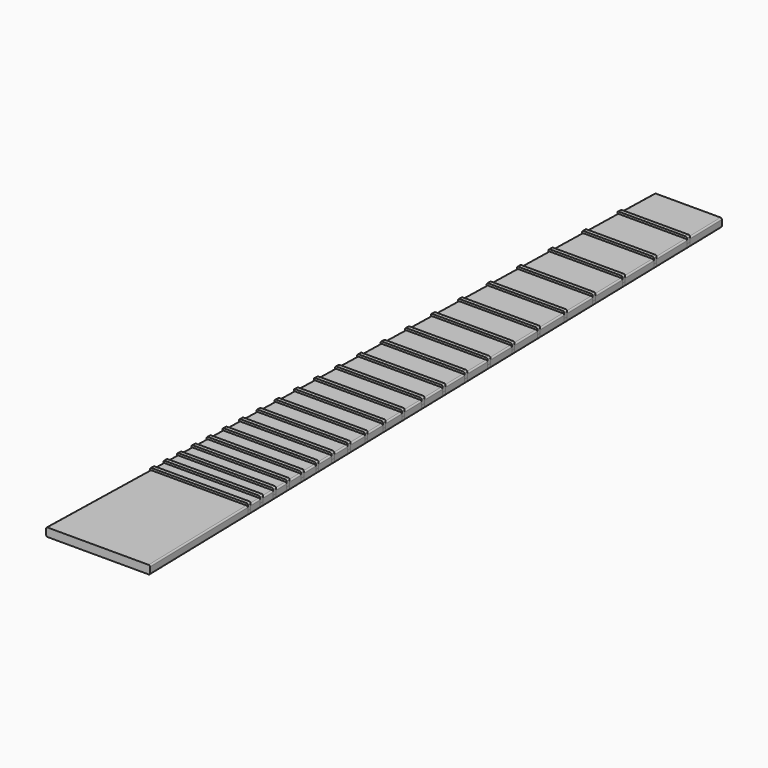
from build123d import *

# Parameters (mm, degrees)
F1_DEPTH = 3
F2_R     = 1
F3_DEPTH = 4.5
F5_R     = 1
F5_2_R   = 1
F5_3_R   = 1
F5_4_R   = 1
F5_5_R   = 1
F5_6_R   = 1
F5_7_R   = 1
F5_8_R   = 1
F5_9_R   = 1
F5_10_R  = 1
F5_11_R  = 1
F5_12_R  = 1
F5_13_R  = 1
F5_14_R  = 1
F5_15_R  = 1
F5_16_R  = 1
F5_17_R  = 1
F5_18_R  = 1
F5_19_R  = 1
F5_20_R  = 1
F5_21_R  = 1
F5_22_R  = 1


with BuildPart() as f1:
    # F0 (on Top) → F1 (new body, symmetric)
    with BuildSketch(Plane.XY):
        Polygon((24, 525), (0, 525), (-24, 525), (-24.7296342857, 495.534), (0, 495.534), (24.7296342857, 495.534), align=None)
        Polygon((0, 495.534), (-24.7296342857, 495.534), (-24.794416381, 492.9178), (0, 492.9178), (24.794416381, 492.9178), (24.7296342857, 495.534), align=None)
        Polygon((0, 492.9178), (-24.794416381, 492.9178), (-25.4830944762, 465.1058), (0, 465.1058), (25.4830944762, 465.1058), (24.794416381, 492.9178), align=None)
        Polygon((0, 465.1058), (-25.4830944762, 465.1058), (-25.5478765714, 462.4896), (0, 462.4896), (25.5478765714, 462.4896), (25.4830944762, 465.1058), align=None)
        Polygon((0, 462.4896), (-25.5478765714, 462.4896), (-26.1979013333, 436.2386), (0, 436.2386), (26.1979013333, 436.2386), (25.5478765714, 462.4896), align=None)
        Polygon((0, 436.2386), (-26.1979013333, 436.2386), (-26.2626834286, 433.6224), (0, 433.6224), (26.2626834286, 433.6224), (26.1979013333, 436.2386), align=None)
        Polygon((0, 433.6224), (-26.2626834286, 433.6224), (-26.8762339048, 408.8444), (0, 408.8444), (26.8762339048, 408.8444), (26.2626834286, 433.6224), align=None)
        Polygon((0, 408.8444), (-26.8762339048, 408.8444), (-26.941016, 406.2282), (0, 406.2282), (26.941016, 406.2282), (26.8762339048, 408.8444), align=None)
        Polygon((0, 406.2282), (-26.941016, 406.2282), (-27.5201226667, 382.8412), (0, 382.8412), (27.5201226667, 382.8412), (26.941016, 406.2282), align=None)
        Polygon((0, 382.8412), (-27.5201226667, 382.8412), (-27.5849047619, 380.225), (0, 380.225), (27.5849047619, 380.225), (27.5201226667, 382.8412), align=None)
        Polygon((0, 380.225), (-27.5849047619, 380.225), (-28.1315238095, 358.15), (0, 358.15), (28.1315238095, 358.15), (27.5849047619, 380.225), align=None)
        Polygon((0, 358.15), (-28.1315238095, 358.15), (-28.1963059048, 355.5338), (0, 355.5338), (28.1963059048, 355.5338), (28.1315238095, 358.15), align=None)
        Polygon((0, 355.5338), (-28.1963059048, 355.5338), (-28.7122449524, 334.6978), (0, 334.6978), (28.7122449524, 334.6978), (28.1963059048, 355.5338), align=None)
        Polygon((0, 334.6978), (-28.7122449524, 334.6978), (-28.7770270476, 332.0816), (0, 332.0816), (28.7770270476, 332.0816), (28.7122449524, 334.6978), align=None)
        Polygon((0, 332.0816), (-28.7770270476, 332.0816), (-29.2639946667, 312.4156), (0, 312.4156), (29.2639946667, 312.4156), (28.7770270476, 332.0816), align=None)
        Polygon((0, 312.4156), (-29.2639946667, 312.4156), (-29.3287767619, 309.7994), (0, 309.7994), (29.3287767619, 309.7994), (29.2639946667, 312.4156), align=None)
        Polygon((0, 309.7994), (-29.3287767619, 309.7994), (-29.7884072381, 291.2374), (0, 291.2374), (29.7884072381, 291.2374), (29.3287767619, 309.7994), align=None)
        Polygon((0, 291.2374), (-29.7884072381, 291.2374), (-29.8531893333, 288.6212), (0, 288.6212), (29.8531893333, 288.6212), (29.7884072381, 291.2374), align=None)
        Polygon((0, 288.6212), (-29.8531893333, 288.6212), (-30.2870426667, 271.1002), (0, 271.1002), (30.2870426667, 271.1002), (29.8531893333, 288.6212), align=None)
        Polygon((0, 271.1002), (-30.2870426667, 271.1002), (-30.3518247619, 268.484), (0, 268.484), (30.3518247619, 268.484), (30.2870426667, 271.1002), align=None)
        Polygon((0, 268.484), (-30.3518247619, 268.484), (-30.761312381, 251.947), (0, 251.947), (30.761312381, 251.947), (30.3518247619, 268.484), align=None)
        Polygon((0, 251.947), (-30.761312381, 251.947), (-30.8260895238, 249.331), (0, 249.331), (30.8260895238, 249.331), (30.761312381, 251.947), align=None)
        Polygon((0, 249.331), (-30.8260895238, 249.331), (-31.2125980952, 233.722), (0, 233.722), (31.2125980952, 233.722), (30.8260895238, 249.331), align=None)
        Polygon((0, 233.722), (-31.2125980952, 233.722), (-31.2773801905, 231.1058), (0, 231.1058), (31.2773801905, 231.1058), (31.2125980952, 233.722), align=None)
        Polygon((0, 231.1058), (-31.2773801905, 231.1058), (-31.6421973333, 216.3728), (0, 216.3728), (31.6421973333, 216.3728), (31.2773801905, 231.1058), align=None)
        Polygon((0, 216.3728), (-31.6421973333, 216.3728), (-31.7069794286, 213.7566), (0, 213.7566), (31.7069794286, 213.7566), (31.6421973333, 216.3728), align=None)
        Polygon((0, 213.7566), (-31.7069794286, 213.7566), (-32.0513184762, 199.8506), (0, 199.8506), (32.0513184762, 199.8506), (31.7069794286, 213.7566), align=None)
        Polygon((0, 199.8506), (-32.0513184762, 199.8506), (-32.1161005714, 197.2344), (0, 197.2344), (32.1161005714, 197.2344), (32.0513184762, 199.8506), align=None)
        Polygon((0, 197.2344), (-32.1161005714, 197.2344), (-32.4411253333, 184.1084), (0, 184.1084), (32.4411253333, 184.1084), (32.1161005714, 197.2344), align=None)
        Polygon((0, 184.1084), (-32.4411253333, 184.1084), (-32.5059024762, 181.4924), (0, 181.4924), (32.5059024762, 181.4924), (32.4411253333, 184.1084), align=None)
        Polygon((0, 181.4924), (-32.5059024762, 181.4924), (-32.8126777143, 169.1034), (0, 169.1034), (32.8126777143, 169.1034), (32.5059024762, 181.4924), align=None)
        Polygon((0, 169.1034), (-32.8126777143, 169.1034), (-32.8774548571, 166.4874), (0, 166.4874), (32.8774548571, 166.4874), (32.8126777143, 169.1034), align=None)
        Polygon((0, 166.4874), (-32.8774548571, 166.4874), (-33.1669958095, 154.7944), (0, 154.7944), (33.1669958095, 154.7944), (32.8774548571, 166.4874), align=None)
        Polygon((0, 154.7944), (-33.1669958095, 154.7944), (-33.2317729524, 152.1784), (0, 152.1784), (33.2317729524, 152.1784), (33.1669958095, 154.7944), align=None)
        Polygon((0, 152.1784), (-33.2317729524, 152.1784), (-33.5050700952, 141.1414), (0, 141.1414), (33.5050700952, 141.1414), (33.2317729524, 152.1784), align=None)
        Polygon((0, 141.1414), (-33.5050700952, 141.1414), (-33.5698472381, 138.5254), (0, 138.5254), (33.5698472381, 138.5254), (33.5050700952, 141.1414), align=None)
        Polygon((0, 138.5254), (-33.5698472381, 138.5254), (-33.8278167619, 128.1074), (0, 128.1074), (33.8278167619, 128.1074), (33.5698472381, 138.5254), align=None)
        Polygon((0, 128.1074), (-33.8278167619, 128.1074), (-33.8925939048, 125.4914), (0, 125.4914), (33.8925939048, 125.4914), (33.8278167619, 128.1074), align=None)
        Polygon((0, 125.4914), (-33.8925939048, 125.4914), (-34.1360777143, 115.6584), (0, 115.6584), (34.1360777143, 115.6584), (33.8925939048, 125.4914), align=None)
        Polygon((0, 115.6584), (-34.1360777143, 115.6584), (-34.2008548571, 113.0424), (0, 113.0424), (34.2008548571, 113.0424), (34.1360777143, 115.6584), align=None)
        Polygon((0, 113.0424), (-34.2008548571, 113.0424), (-34.4306948571, 103.7604), (0, 103.7604), (34.4306948571, 103.7604), (34.2008548571, 113.0424), align=None)
        Polygon((0, 103.7604), (-34.4306948571, 103.7604), (-34.495472, 101.1444), (0, 101.1444), (34.495472, 101.1444), (34.4306948571, 103.7604), align=None)
        Polygon((0, 101.1444), (-34.495472, 101.1444), (-34.7123862857, 92.3844), (0, 92.3844), (34.7123862857, 92.3844), (34.495472, 101.1444), align=None)
        Polygon((0, 92.3844), (-34.7123862857, 92.3844), (-34.7771634286, 89.7684), (0, 89.7684), (34.7771634286, 89.7684), (34.7123862857, 92.3844), align=None)
        Polygon((0, 89.7684), (-34.7771634286, 89.7684), (-37, 0), (0, 0), (37, 0), (34.7771634286, 89.7684), align=None)
    extrude(amount=F1_DEPTH, both=True)

    # F2
    f2_edges = [f1.edges().sort_by_distance(p)[0] for p in [
        (-30.5, 262.5, -3),
        (30.5, 262.5, -3),
        (30.5, 262.5, 3),
        (-30.5, 262.5, 3),
    ]]
    fillet(f2_edges, radius=F2_R)


with BuildPart() as f3:
    # F0 (on Top) → F3 (new body)
    with BuildSketch(Plane.XY):
        Polygon((0, 495.534), (-24.7296342857, 495.534), (-24.794416381, 492.9178), (0, 492.9178), (24.794416381, 492.9178), (24.7296342857, 495.534), align=None)
    extrude(amount=F3_DEPTH)


with BuildPart() as f3b:
    # F0 (on Top) → F3, piece 2 (new body)
    with BuildSketch(Plane.XY):
        Polygon((0, 465.1058), (-25.4830944762, 465.1058), (-25.5478765714, 462.4896), (0, 462.4896), (25.5478765714, 462.4896), (25.4830944762, 465.1058), align=None)
    extrude(amount=F3_DEPTH)


with BuildPart() as f3c:
    # F0 (on Top) → F3, piece 3 (new body)
    with BuildSketch(Plane.XY):
        Polygon((0, 436.2386), (-26.1979013333, 436.2386), (-26.2626834286, 433.6224), (0, 433.6224), (26.2626834286, 433.6224), (26.1979013333, 436.2386), align=None)
    extrude(amount=F3_DEPTH)


with BuildPart() as f3d:
    # F0 (on Top) → F3, piece 4 (new body)
    with BuildSketch(Plane.XY):
        Polygon((0, 408.8444), (-26.8762339048, 408.8444), (-26.941016, 406.2282), (0, 406.2282), (26.941016, 406.2282), (26.8762339048, 408.8444), align=None)
    extrude(amount=F3_DEPTH)


with BuildPart() as f3e:
    # F0 (on Top) → F3, piece 5 (new body)
    with BuildSketch(Plane.XY):
        Polygon((0, 382.8412), (-27.5201226667, 382.8412), (-27.5849047619, 380.225), (0, 380.225), (27.5849047619, 380.225), (27.5201226667, 382.8412), align=None)
    extrude(amount=F3_DEPTH)


with BuildPart() as f3f:
    # F0 (on Top) → F3, piece 6 (new body)
    with BuildSketch(Plane.XY):
        Polygon((0, 358.15), (-28.1315238095, 358.15), (-28.1963059048, 355.5338), (0, 355.5338), (28.1963059048, 355.5338), (28.1315238095, 358.15), align=None)
    extrude(amount=F3_DEPTH)


with BuildPart() as f3g:
    # F0 (on Top) → F3, piece 7 (new body)
    with BuildSketch(Plane.XY):
        Polygon((0, 334.6978), (-28.7122449524, 334.6978), (-28.7770270476, 332.0816), (0, 332.0816), (28.7770270476, 332.0816), (28.7122449524, 334.6978), align=None)
    extrude(amount=F3_DEPTH)


with BuildPart() as f3h:
    # F0 (on Top) → F3, piece 8 (new body)
    with BuildSketch(Plane.XY):
        Polygon((0, 312.4156), (-29.2639946667, 312.4156), (-29.3287767619, 309.7994), (0, 309.7994), (29.3287767619, 309.7994), (29.2639946667, 312.4156), align=None)
    extrude(amount=F3_DEPTH)


with BuildPart() as f3i:
    # F0 (on Top) → F3, piece 9 (new body)
    with BuildSketch(Plane.XY):
        Polygon((0, 291.2374), (-29.7884072381, 291.2374), (-29.8531893333, 288.6212), (0, 288.6212), (29.8531893333, 288.6212), (29.7884072381, 291.2374), align=None)
    extrude(amount=F3_DEPTH)


with BuildPart() as f3j:
    # F0 (on Top) → F3, piece 10 (new body)
    with BuildSketch(Plane.XY):
        Polygon((0, 271.1002), (-30.2870426667, 271.1002), (-30.3518247619, 268.484), (0, 268.484), (30.3518247619, 268.484), (30.2870426667, 271.1002), align=None)
    extrude(amount=F3_DEPTH)


with BuildPart() as f3k:
    # F0 (on Top) → F3, piece 11 (new body)
    with BuildSketch(Plane.XY):
        Polygon((0, 251.947), (-30.761312381, 251.947), (-30.8260895238, 249.331), (0, 249.331), (30.8260895238, 249.331), (30.761312381, 251.947), align=None)
    extrude(amount=F3_DEPTH)


with BuildPart() as f3l:
    # F0 (on Top) → F3, piece 12 (new body)
    with BuildSketch(Plane.XY):
        Polygon((0, 233.722), (-31.2125980952, 233.722), (-31.2773801905, 231.1058), (0, 231.1058), (31.2773801905, 231.1058), (31.2125980952, 233.722), align=None)
    extrude(amount=F3_DEPTH)


with BuildPart() as f3m:
    # F0 (on Top) → F3, piece 13 (new body)
    with BuildSketch(Plane.XY):
        Polygon((0, 216.3728), (-31.6421973333, 216.3728), (-31.7069794286, 213.7566), (0, 213.7566), (31.7069794286, 213.7566), (31.6421973333, 216.3728), align=None)
    extrude(amount=F3_DEPTH)


with BuildPart() as f3n:
    # F0 (on Top) → F3, piece 14 (new body)
    with BuildSketch(Plane.XY):
        Polygon((0, 199.8506), (-32.0513184762, 199.8506), (-32.1161005714, 197.2344), (0, 197.2344), (32.1161005714, 197.2344), (32.0513184762, 199.8506), align=None)
    extrude(amount=F3_DEPTH)


with BuildPart() as f3o:
    # F0 (on Top) → F3, piece 15 (new body)
    with BuildSketch(Plane.XY):
        Polygon((0, 184.1084), (-32.4411253333, 184.1084), (-32.5059024762, 181.4924), (0, 181.4924), (32.5059024762, 181.4924), (32.4411253333, 184.1084), align=None)
    extrude(amount=F3_DEPTH)


with BuildPart() as f3p:
    # F0 (on Top) → F3, piece 16 (new body)
    with BuildSketch(Plane.XY):
        Polygon((0, 169.1034), (-32.8126777143, 169.1034), (-32.8774548571, 166.4874), (0, 166.4874), (32.8774548571, 166.4874), (32.8126777143, 169.1034), align=None)
    extrude(amount=F3_DEPTH)


with BuildPart() as f3q:
    # F0 (on Top) → F3, piece 17 (new body)
    with BuildSketch(Plane.XY):
        Polygon((0, 154.7944), (-33.1669958095, 154.7944), (-33.2317729524, 152.1784), (0, 152.1784), (33.2317729524, 152.1784), (33.1669958095, 154.7944), align=None)
    extrude(amount=F3_DEPTH)


with BuildPart() as f3r:
    # F0 (on Top) → F3, piece 18 (new body)
    with BuildSketch(Plane.XY):
        Polygon((0, 141.1414), (-33.5050700952, 141.1414), (-33.5698472381, 138.5254), (0, 138.5254), (33.5698472381, 138.5254), (33.5050700952, 141.1414), align=None)
    extrude(amount=F3_DEPTH)


with BuildPart() as f3s:
    # F0 (on Top) → F3, piece 19 (new body)
    with BuildSketch(Plane.XY):
        Polygon((0, 128.1074), (-33.8278167619, 128.1074), (-33.8925939048, 125.4914), (0, 125.4914), (33.8925939048, 125.4914), (33.8278167619, 128.1074), align=None)
    extrude(amount=F3_DEPTH)


with BuildPart() as f3t:
    # F0 (on Top) → F3, piece 20 (new body)
    with BuildSketch(Plane.XY):
        Polygon((0, 92.3844), (-34.7123862857, 92.3844), (-34.7771634286, 89.7684), (0, 89.7684), (34.7771634286, 89.7684), (34.7123862857, 92.3844), align=None)
    extrude(amount=F3_DEPTH)


with BuildPart() as f3u:
    # F0 (on Top) → F3, piece 21 (new body)
    with BuildSketch(Plane.XY):
        Polygon((0, 103.7604), (-34.4306948571, 103.7604), (-34.495472, 101.1444), (0, 101.1444), (34.495472, 101.1444), (34.4306948571, 103.7604), align=None)
    extrude(amount=F3_DEPTH)


with BuildPart() as f3v:
    # F0 (on Top) → F3, piece 22 (new body)
    with BuildSketch(Plane.XY):
        Polygon((0, 115.6584), (-34.1360777143, 115.6584), (-34.2008548571, 113.0424), (0, 113.0424), (34.2008548571, 113.0424), (34.1360777143, 115.6584), align=None)
    extrude(amount=F3_DEPTH)


with BuildPart() as f1_1:
    add(f1.part)

    # F4: cut F3t, F3u, F3v, F3s, F3r, F3q, F3p, F3o, F3n, F3m, F3l, F3k, F3j, F3i, F3h, F3g, F3f, F3e, F3d, F3c, F3b, F3
    add(f3t.part, mode=Mode.SUBTRACT)
    add(f3u.part, mode=Mode.SUBTRACT)
    add(f3v.part, mode=Mode.SUBTRACT)
    add(f3s.part, mode=Mode.SUBTRACT)
    add(f3r.part, mode=Mode.SUBTRACT)
    add(f3q.part, mode=Mode.SUBTRACT)
    add(f3p.part, mode=Mode.SUBTRACT)
    add(f3o.part, mode=Mode.SUBTRACT)
    add(f3n.part, mode=Mode.SUBTRACT)
    add(f3m.part, mode=Mode.SUBTRACT)
    add(f3l.part, mode=Mode.SUBTRACT)
    add(f3k.part, mode=Mode.SUBTRACT)
    add(f3j.part, mode=Mode.SUBTRACT)
    add(f3i.part, mode=Mode.SUBTRACT)
    add(f3h.part, mode=Mode.SUBTRACT)
    add(f3g.part, mode=Mode.SUBTRACT)
    add(f3f.part, mode=Mode.SUBTRACT)
    add(f3e.part, mode=Mode.SUBTRACT)
    add(f3d.part, mode=Mode.SUBTRACT)
    add(f3c.part, mode=Mode.SUBTRACT)
    add(f3b.part, mode=Mode.SUBTRACT)
    add(f3.part, mode=Mode.SUBTRACT)


with BuildPart() as f3_1:
    add(f3.part)

    # F5
    f5_edges = [f3_1.edges().sort_by_distance(p)[0] for p in [
        (-24.762025, 494.2259, 4.5),
        (24.762025, 494.2259, 4.5),
    ]]
    fillet(f5_edges, radius=F5_R)


with BuildPart() as f3b_1:
    add(f3b.part)

    # F5#2
    f5_2_edges = [f3b_1.edges().sort_by_distance(p)[0] for p in [
        (25.515486, 463.7977, 4.5),
        (-25.515486, 463.7977, 4.5),
    ]]
    fillet(f5_2_edges, radius=F5_2_R)


with BuildPart() as f3c_1:
    add(f3c.part)

    # F5#3
    f5_3_edges = [f3c_1.edges().sort_by_distance(p)[0] for p in [
        (-26.230292, 434.9305, 4.5),
        (26.230292, 434.9305, 4.5),
    ]]
    fillet(f5_3_edges, radius=F5_3_R)


with BuildPart() as f3d_1:
    add(f3d.part)

    # F5#4
    f5_4_edges = [f3d_1.edges().sort_by_distance(p)[0] for p in [
        (-26.908625, 407.5363, 4.5),
        (26.908625, 407.5363, 4.5),
    ]]
    fillet(f5_4_edges, radius=F5_4_R)


with BuildPart() as f3e_1:
    add(f3e.part)

    # F5#5
    f5_5_edges = [f3e_1.edges().sort_by_distance(p)[0] for p in [
        (27.552514, 381.5331, 4.5),
        (-27.552514, 381.5331, 4.5),
    ]]
    fillet(f5_5_edges, radius=F5_5_R)


with BuildPart() as f3f_1:
    add(f3f.part)

    # F5#6
    f5_6_edges = [f3f_1.edges().sort_by_distance(p)[0] for p in [
        (-28.163915, 356.8419, 4.5),
        (28.163915, 356.8419, 4.5),
    ]]
    fillet(f5_6_edges, radius=F5_6_R)


with BuildPart() as f3g_1:
    add(f3g.part)

    # F5#7
    f5_7_edges = [f3g_1.edges().sort_by_distance(p)[0] for p in [
        (28.744636, 333.3897, 4.5),
        (-28.744636, 333.3897, 4.5),
    ]]
    fillet(f5_7_edges, radius=F5_7_R)


with BuildPart() as f3h_1:
    add(f3h.part)

    # F5#8
    f5_8_edges = [f3h_1.edges().sort_by_distance(p)[0] for p in [
        (-29.296386, 311.1075, 4.5),
        (29.296386, 311.1075, 4.5),
    ]]
    fillet(f5_8_edges, radius=F5_8_R)


with BuildPart() as f3i_1:
    add(f3i.part)

    # F5#9
    f5_9_edges = [f3i_1.edges().sort_by_distance(p)[0] for p in [
        (29.820798, 289.9293, 4.5),
        (-29.820798, 289.9293, 4.5),
    ]]
    fillet(f5_9_edges, radius=F5_9_R)


with BuildPart() as f3j_1:
    add(f3j.part)

    # F5#10
    f5_10_edges = [f3j_1.edges().sort_by_distance(p)[0] for p in [
        (-30.319434, 269.7921, 4.5),
        (30.319434, 269.7921, 4.5),
    ]]
    fillet(f5_10_edges, radius=F5_10_R)


with BuildPart() as f3k_1:
    add(f3k.part)

    # F5#11
    f5_11_edges = [f3k_1.edges().sort_by_distance(p)[0] for p in [
        (30.793701, 250.639, 4.5),
        (-30.793701, 250.639, 4.5),
    ]]
    fillet(f5_11_edges, radius=F5_11_R)


with BuildPart() as f3l_1:
    add(f3l.part)

    # F5#12
    f5_12_edges = [f3l_1.edges().sort_by_distance(p)[0] for p in [
        (-31.244989, 232.4139, 4.5),
        (31.244989, 232.4139, 4.5),
    ]]
    fillet(f5_12_edges, radius=F5_12_R)


with BuildPart() as f3m_1:
    add(f3m.part)

    # F5#13
    f5_13_edges = [f3m_1.edges().sort_by_distance(p)[0] for p in [
        (-31.674588, 215.0647, 4.5),
        (31.674588, 215.0647, 4.5),
    ]]
    fillet(f5_13_edges, radius=F5_13_R)


with BuildPart() as f3n_1:
    add(f3n.part)

    # F5#14
    f5_14_edges = [f3n_1.edges().sort_by_distance(p)[0] for p in [
        (32.08371, 198.5425, 4.5),
        (-32.08371, 198.5425, 4.5),
    ]]
    fillet(f5_14_edges, radius=F5_14_R)


with BuildPart() as f3o_1:
    add(f3o.part)

    # F5#15
    f5_15_edges = [f3o_1.edges().sort_by_distance(p)[0] for p in [
        (-32.473514, 182.8004, 4.5),
        (32.473514, 182.8004, 4.5),
    ]]
    fillet(f5_15_edges, radius=F5_15_R)


with BuildPart() as f3p_1:
    add(f3p.part)

    # F5#16
    f5_16_edges = [f3p_1.edges().sort_by_distance(p)[0] for p in [
        (32.845066, 167.7954, 4.5),
        (-32.845066, 167.7954, 4.5),
    ]]
    fillet(f5_16_edges, radius=F5_16_R)


with BuildPart() as f3q_1:
    add(f3q.part)

    # F5#17
    f5_17_edges = [f3q_1.edges().sort_by_distance(p)[0] for p in [
        (-33.199384, 153.4864, 4.5),
        (33.199384, 153.4864, 4.5),
    ]]
    fillet(f5_17_edges, radius=F5_17_R)


with BuildPart() as f3r_1:
    add(f3r.part)

    # F5#18
    f5_18_edges = [f3r_1.edges().sort_by_distance(p)[0] for p in [
        (33.537459, 139.8334, 4.5),
        (-33.537459, 139.8334, 4.5),
    ]]
    fillet(f5_18_edges, radius=F5_18_R)


with BuildPart() as f3s_1:
    add(f3s.part)

    # F5#19
    f5_19_edges = [f3s_1.edges().sort_by_distance(p)[0] for p in [
        (-33.860205, 126.7994, 4.5),
        (33.860205, 126.7994, 4.5),
    ]]
    fillet(f5_19_edges, radius=F5_19_R)


with BuildPart() as f3v_1:
    add(f3v.part)

    # F5#20
    f5_20_edges = [f3v_1.edges().sort_by_distance(p)[0] for p in [
        (34.168466, 114.3504, 4.5),
        (-34.168466, 114.3504, 4.5),
    ]]
    fillet(f5_20_edges, radius=F5_20_R)


with BuildPart() as f3u_1:
    add(f3u.part)

    # F5#21
    f5_21_edges = [f3u_1.edges().sort_by_distance(p)[0] for p in [
        (34.463083, 102.4524, 4.5),
        (-34.463083, 102.4524, 4.5),
    ]]
    fillet(f5_21_edges, radius=F5_21_R)


with BuildPart() as f3t_1:
    add(f3t.part)

    # F5#22
    f5_22_edges = [f3t_1.edges().sort_by_distance(p)[0] for p in [
        (34.744775, 91.0764, 4.5),
        (-34.744775, 91.0764, 4.5),
    ]]
    fillet(f5_22_edges, radius=F5_22_R)


solid = Compound([f1_1.part, f3_1.part, f3b_1.part, f3c_1.part, f3d_1.part, f3e_1.part, f3f_1.part, f3g_1.part, f3h_1.part, f3i_1.part, f3j_1.part, f3k_1.part, f3l_1.part, f3m_1.part, f3n_1.part, f3o_1.part, f3p_1.part, f3q_1.part, f3r_1.part, f3s_1.part, f3v_1.part, f3u_1.part, f3t_1.part])
